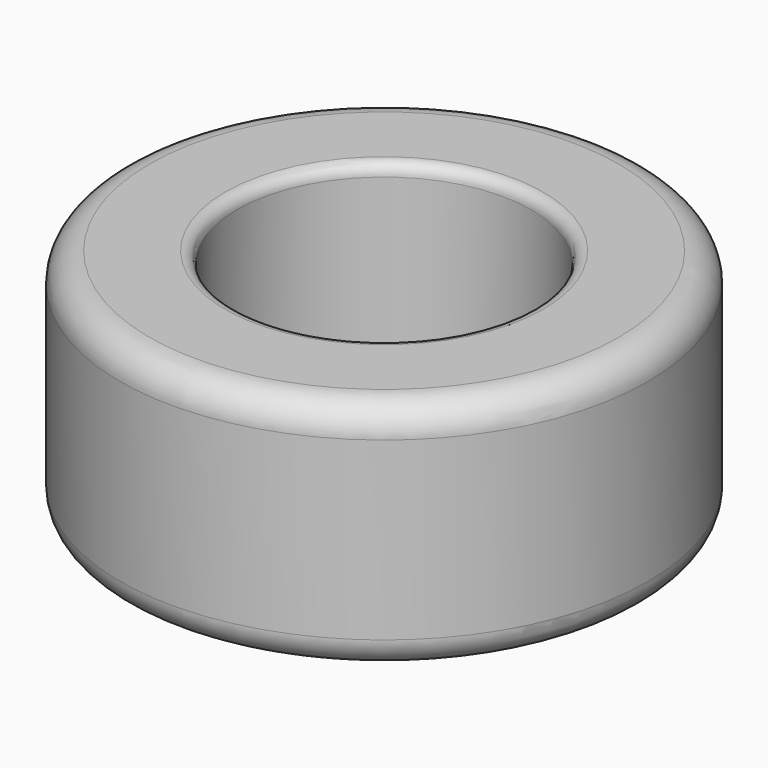
from build123d import *

# Parameters (mm, degrees)
F0_R     = 22.5
F0_R_2   = 12.55
F1_DEPTH = 20
F2_R     = 2.5
F3_R     = 1
F4_R     = 1
F5_R     = 2.5


with BuildPart() as f1:
    # F0 (on Top) → F1 (new body)
    with BuildSketch(Plane.XY):
        Circle(F0_R)
        Circle(F0_R_2, mode=Mode.SUBTRACT)
    extrude(amount=F1_DEPTH)

    # F2
    f2_edges = [f1.edges().sort_by_distance(p)[0] for p in [
        (-22.5, 0, 20),
    ]]
    fillet(f2_edges, radius=F2_R)

    # F3
    f3_edges = [f1.edges().sort_by_distance(p)[0] for p in [
        (-12.55, 0, 20),
    ]]
    fillet(f3_edges, radius=F3_R)

    # F4
    f4_edges = [f1.edges().sort_by_distance(p)[0] for p in [
        (-12.55, 0, 0),
    ]]
    fillet(f4_edges, radius=F4_R)

    # F5
    f5_edges = [f1.edges().sort_by_distance(p)[0] for p in [
        (-22.5, 0, 0),
    ]]
    fillet(f5_edges, radius=F5_R)


solid = f1.part
